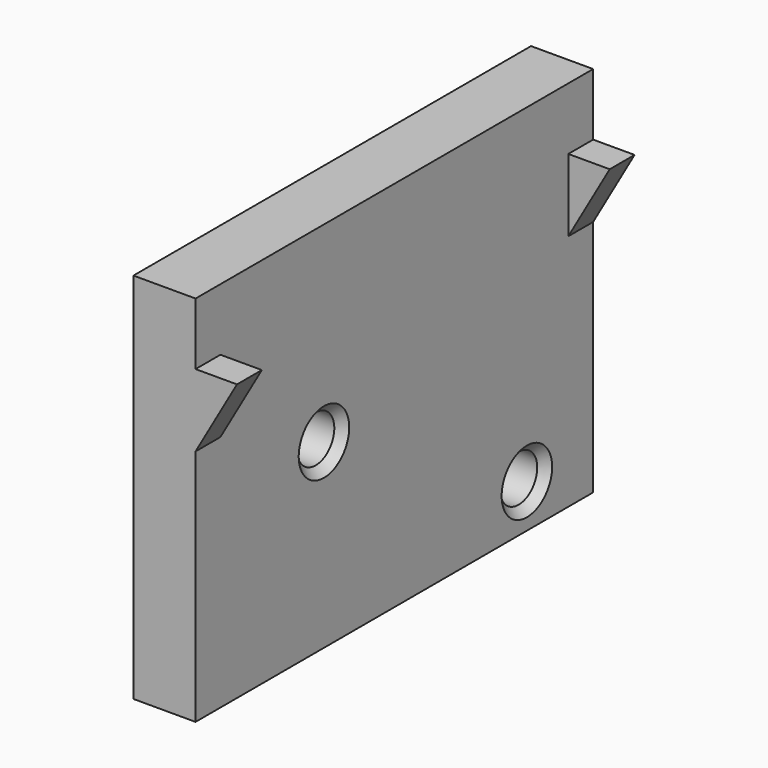
from build123d import *

# Parameters (mm, degrees)
SKETCH028_W         = 6
SKETCH028_H         = 48
PAD010_DEPTH        = 6
PAD010_DEPTH_BACK   = 30
PAD011_DEPTH        = 3
HOLE011_D           = 4.5
HOLE011_DEPTH       = 25
HOLE011_CSINK_D     = 6.1
HOLE011_CSINK_ANGLE = 90


with BuildPart() as part:
    # Sketch028 (on Face1 of Binder017) → Pad010 (new body, two sides)
    with BuildSketch(Plane.XY) as pad010_sk:
        with Locations((-24, 0)):
            Rectangle(SKETCH028_W, SKETCH028_H)
    extrude(amount=PAD010_DEPTH)
    extrude(pad010_sk.sketch, amount=-PAD010_DEPTH_BACK)

    # Sketch029 (on Face3 of Pad010) → Pad011 (join)
    with BuildSketch(Plane.XZ.offset(24)):
        Polygon((-21, 0), (-21, -7), (-17, 0), align=None)
    pad011 = extrude(amount=-PAD011_DEPTH)

    # Mirrored003: Pad011 across XZ
    add(pad011.mirror(Plane.XZ))

    # Hole011
    with Locations(Plane(origin=(-21, 24, 0), x_dir=(0, 1, 0), z_dir=(1, 0, 0))):
        with Locations((-32.5, -12.5), (-8, -25.81125)):
            CounterSinkHole(HOLE011_D / 2, HOLE011_CSINK_D / 2, depth=HOLE011_DEPTH, counter_sink_angle=HOLE011_CSINK_ANGLE)


solid = part.part
